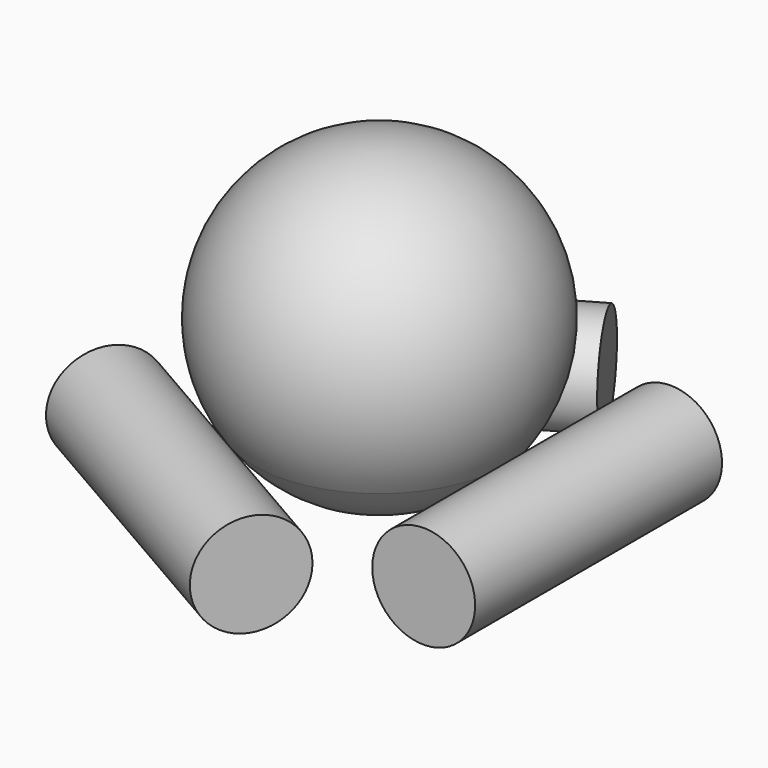
from build123d import *

# Parameters (mm, degrees)
F3_COUNT = 3


with BuildPart() as f1:
    # F0 (on Top) → F1 (revolve)
    with BuildSketch(Plane.XY):
        Polygon((1.535373419, 6.8656552296), (-6.713518552, 2.1031552296), (-5.919768552, 0.7283399011), (-1.7953226637, 3.109589845), (2.329123419, 5.4908399011), align=None)
    revolve(axis=Axis((-2.5890725665, 4.4844052296, 0), (0.8660254038, 0.5, 0)))


with BuildPart() as f3_1:
    # F3: instance of F1
    add(f1.part.rotate(Axis((0, 0, 6.09515002), (0, 0, 1)), 1 * 360 / F3_COUNT))


with BuildPart() as f3_2:
    # F3: instance of F1
    add(f1.part.rotate(Axis((0, 0, 6.09515002), (0, 0, 1)), 2 * 360 / F3_COUNT))


with BuildPart() as f5:
    # F4 (on Front) → F5 (revolve)
    with BuildSketch(Plane.XZ):
        with BuildLine():
            ThreePointArc((0, -1.086998268), (2.1855175087, -0.5559187705), (3.8836088588, 0.9188754458))
            ThreePointArc((3.8836088588, 0.9188754458), (4.2314205025, 5.8610192407), (0, 8.438001732))
            Line((0, 8.438001732), (0, -1.086998268))
        make_face()
    revolve(axis=Axis((0, 0, 6.09515002), (0, 0, 1)))


solid = Compound([f1.part, f3_1.part, f3_2.part, f5.part])
